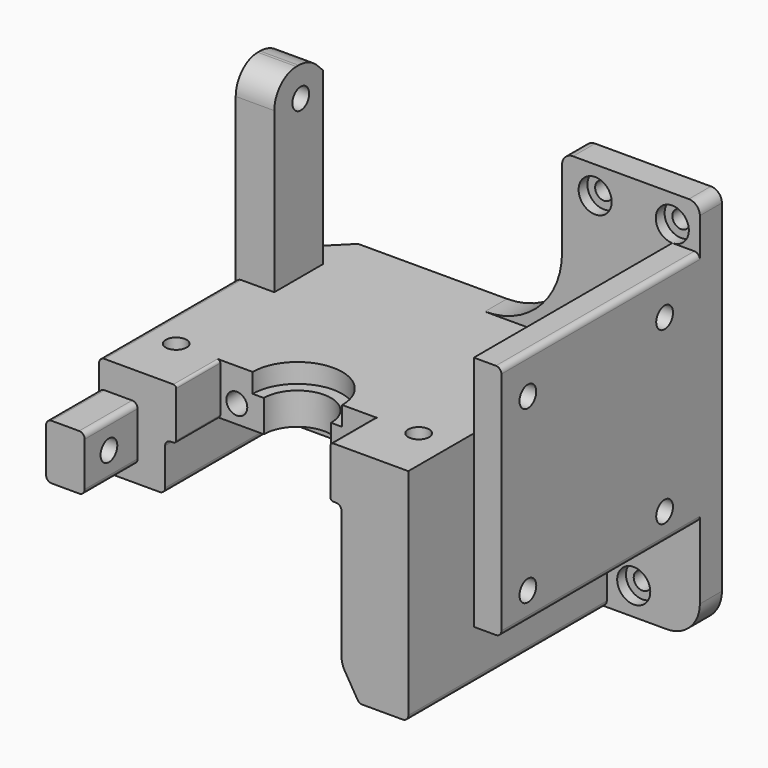
from build123d import *

# Parameters (mm, degrees)
PAD_DEPTH       = 70
SKETCH001_W     = 11.887794
SKETCH001_H     = 46.78
POCKET_DEPTH    = 70.001
POCKET001_DEPTH = 30
SKETCH003_R     = 1.9
POCKET002_DEPTH = 40.001
POCKET003_DEPTH = 3.5
POCKET004_DEPTH = 9
SKETCH021_W     = 28
SKETCH021_H     = 53.161749
POCKET005_DEPTH = 10
SKETCH022_W     = 32
SKETCH022_H     = 58.660217
POCKET006_DEPTH = 28
POCKET007_DEPTH = 51
SKETCH008_W     = 19.05323
SKETCH008_H     = 10.69447
SKETCH008_W_2   = 35.750058
SKETCH008_H_2   = 36.172176
POCKET008_DEPTH = 45
SKETCH009_R     = 1.9
POCKET009_DEPTH = 5
SKETCH015_W     = 11
SKETCH015_H     = 38.184422
SKETCH015_W_2   = 19.881198
SKETCH015_H_2   = 10
PAD001_DEPTH    = 7
SKETCH011_R     = 1.9
POCKET010_DEPTH = 10
SKETCH014_W     = 10
SKETCH014_H     = 15
PAD002_DEPTH    = 18
SKETCH010_R     = 1.6
POCKET011_DEPTH = 6
SKETCH017_R     = 3
POCKET012_DEPTH = 2
SKETCH013_R     = 1.9
POCKET013_DEPTH = 10
CHAMFER_SIZE    = 7
CHAMFER001_SIZE = 3
FILLET_R        = 6
FILLET001_R     = 5
FILLET002_R     = 1
FILLET003_R     = 1
FILLET004_R     = 1
FILLET005_R     = 1
FILLET006_R     = 5
FILLET007_R     = 4
FILLET008_R     = 1
FILLET009_R     = 1
FILLET010_R     = 1
FILLET011_R     = 0.5
FILLET012_R     = 1
FILLET013_R     = 1
FILLET014_R     = 1
FILLET015_R     = 14
FILLET016_R     = 2
FILLET017_R     = 6
FILLET018_R     = 1


with BuildPart() as part:
    # Sketch → Pad (new body)
    with BuildSketch(Plane.XY):
        Polygon((0, 0), (45, 0), (45, -50), (-28, -50), (-28, 0), align=None)
    extrude(amount=PAD_DEPTH)

    # Sketch001 (on Face7 of Pad) → Pocket (cut, through all)
    with BuildSketch(Plane.XY.offset(70)):
        with Locations((34.056103, -28.39)):
            Rectangle(SKETCH001_W, SKETCH001_H)
    extrude(amount=-POCKET_DEPTH, mode=Mode.SUBTRACT)

    # Sketch002 (on Face5 of Pocket) → Pocket001 (cut)
    with BuildSketch(Plane.XY.offset(70)):
        Polygon((30, -5), (30, -65.096024), (-40.783405, -65.096024), (-40.783405, 12.994774), (20, 12.994774), (20, -5), align=None)
    extrude(amount=-POCKET001_DEPTH, mode=Mode.SUBTRACT)

    # Sketch003 (on Face6 of Pocket001) → Pocket002 (cut, through all)
    with BuildSketch(Plane.XY.offset(40)):
        with Locations((-22, -40)):
            Circle(SKETCH003_R)
        with Locations((22, -40)):
            Circle(SKETCH003_R)
    extrude(amount=-POCKET002_DEPTH, mode=Mode.SUBTRACT)

    # Sketch004 (on Face6 of Pocket002) → Pocket003 (cut)
    with BuildSketch(Plane.XY.offset(40)):
        with BuildLine():
            ThreePointArc((8.125, -40), (0, -31.875), (-8.125, -40))
            Line((-8.125, -59.24), (-8.125, -40))
            Line((8.125, -59.24), (-8.125, -59.24))
            Line((8.125, -40), (8.125, -59.24))
        make_face()
    extrude(amount=-POCKET003_DEPTH, mode=Mode.SUBTRACT)

    # Sketch018 → Pocket004 (cut)
    with BuildSketch(Plane.XY.offset(36.5)):
        with BuildLine():
            ThreePointArc((6.1, -40), (0, -33.9), (-6.1, -40))
            Line((-6.1, -40), (-6.1, -58.98))
            Line((6.1, -58.98), (-6.1, -58.98))
            Line((6.1, -40), (6.1, -58.98))
        make_face()
    extrude(amount=-POCKET004_DEPTH, mode=Mode.SUBTRACT)

    # Sketch021 (on Face9 of Pocket004) → Pocket005 (cut)
    with BuildSketch(Plane.XZ.offset(50)):
        with Locations((0, 16.83664)):
            Rectangle(SKETCH021_W, SKETCH021_H)
    extrude(amount=-POCKET005_DEPTH, mode=Mode.SUBTRACT)

    # Sketch022 (on Face13 of Pocket005) → Pocket006 (cut)
    with BuildSketch(Plane.XZ.offset(50)):
        with Locations((0, 1.369891)):
            Rectangle(SKETCH022_W, SKETCH022_H)
    extrude(amount=-POCKET006_DEPTH, mode=Mode.SUBTRACT)

    # Sketch023 (on Face9 of Pocket006) → Pocket007 (cut)
    with BuildSketch(Plane.XZ.offset(50)):
        Polygon((-38.33, 22), (6, 22), (24, -8), (-38.33, -8), align=None)
    extrude(amount=-POCKET007_DEPTH, mode=Mode.SUBTRACT)

    # Sketch008 (on Face14 of Pocket007) → Pocket008 (cut)
    with BuildSketch(Plane.XZ.offset(50)):
        with Locations((44.142395, 67.347235)):
            Rectangle(SKETCH008_W, SKETCH008_H)
        with Locations((52.797694, 0.913912)):
            Rectangle(SKETCH008_W_2, SKETCH008_H_2)
    extrude(amount=-POCKET008_DEPTH, mode=Mode.SUBTRACT)

    # Sketch009 (on Face3 of Pocket008) → Pocket009 (cut)
    with BuildSketch(Plane.YZ.offset(45)):
        with Locations((-44, 55)):
            Circle(SKETCH009_R)
        with Locations((-13, 24)):
            Circle(SKETCH009_R)
        with Locations((-13, 55)):
            Circle(SKETCH009_R)
        with Locations((-44, 24)):
            Circle(SKETCH009_R)
    extrude(amount=-POCKET009_DEPTH, mode=Mode.SUBTRACT)

    # Sketch015 (on Face27 of Pocket009) → Pad001 (join)
    with BuildSketch(Plane(origin=(-28, 0, 0), x_dir=(0, -1, 0), z_dir=(-1, 0, 0))):
        with Locations((13.5, 54.907789)):
            Rectangle(SKETCH015_W, SKETCH015_H)
        with Locations((52.059401, 30)):
            Rectangle(SKETCH015_W_2, SKETCH015_H_2)
    extrude(amount=-PAD001_DEPTH)

    # Sketch011 (on Face27 of Pad001) → Pocket010 (cut)
    with BuildSketch(Plane(origin=(-28, 0, 0), x_dir=(0, -1, 0), z_dir=(-1, 0, 0))):
        with Locations((56.5, 30)):
            Circle(SKETCH011_R)
        with Locations((13, 68.5)):
            Circle(SKETCH011_R)
    extrude(amount=-POCKET010_DEPTH, mode=Mode.SUBTRACT)

    # Sketch014 (on Face3 of Pocket010) → Pad002 (join)
    with BuildSketch(Plane.YZ.offset(45)):
        with Locations((-30, 32.5)):
            Rectangle(SKETCH014_W, SKETCH014_H)
    extrude(amount=-PAD002_DEPTH)

    # Sketch010 → Pocket011 (cut)
    with BuildSketch(Plane(origin=(0, 0, 0), x_dir=(-1, 0, 0), z_dir=(0, 1, 0))):
        with Locations((-33, 5)):
            Circle(SKETCH010_R)
        with Locations((-40, 65)):
            Circle(SKETCH010_R)
        with Locations((-26, 65)):
            Circle(SKETCH010_R)
    extrude(amount=-POCKET011_DEPTH, mode=Mode.SUBTRACT)

    # Sketch017 (on Face34 of Pocket011) → Pocket012 (cut)
    with BuildSketch(Plane.XZ.offset(5)):
        with Locations((26, 65)):
            Circle(SKETCH017_R)
        with Locations((33, 5)):
            Circle(SKETCH017_R)
        with Locations((40, 65)):
            Circle(SKETCH017_R)
    extrude(amount=-POCKET012_DEPTH, mode=Mode.SUBTRACT)

    # Sketch013 (on Face43 of Pocket012) → Pocket013 (cut)
    with BuildSketch(Plane.XZ.offset(40)):
        with Locations((-11, 34)):
            Circle(SKETCH013_R)
        with Locations((11, 34)):
            Circle(SKETCH013_R)
    extrude(amount=-POCKET013_DEPTH, mode=Mode.SUBTRACT)

    # Chamfer
    chamfer_edges = [part.edges().sort_by_distance(p)[0] for p in [
        (-28, 0, 31),
    ]]
    chamfer(chamfer_edges, length=CHAMFER_SIZE)

    # Chamfer001
    chamfer001_edges = [part.edges().sort_by_distance(p)[0] for p in [
        (-24.5, -8, 74),
    ]]
    chamfer(chamfer001_edges, length=CHAMFER001_SIZE)

    # Fillet
    fillet_edges = [part.edges().sort_by_distance(p)[0] for p in [
        (-24.5, -11, 74),
    ]]
    fillet(fillet_edges, radius=FILLET_R)

    # Fillet001
    fillet001_edges = [part.edges().sort_by_distance(p)[0] for p in [
        (-24.5, -19, 74),
    ]]
    fillet(fillet001_edges, radius=FILLET001_R)

    # Fillet002
    fillet002_edges = [part.edges().sort_by_distance(p)[0] for p in [
        (-28, -34.5, 40),
    ]]
    fillet(fillet002_edges, radius=FILLET002_R)

    # Fillet003
    fillet003_edges = [part.edges().sort_by_distance(p)[0] for p in [
        (-28, -28.5, 22),
    ]]
    fillet(fillet003_edges, radius=FILLET003_R)

    # Fillet004
    fillet004_edges = [part.edges().sort_by_distance(p)[0] for p in [
        (-16, -36, 22),
    ]]
    fillet(fillet004_edges, radius=FILLET004_R)

    # Fillet005
    fillet005_edges = [part.edges().sort_by_distance(p)[0] for p in [
        (19.2, -25, 0),
    ]]
    fillet(fillet005_edges, radius=FILLET005_R)

    # Fillet006
    fillet006_edges = [part.edges().sort_by_distance(p)[0] for p in [
        (6, -11, 22),
    ]]
    fillet(fillet006_edges, radius=FILLET006_R)

    # Fillet007
    fillet007_edges = [part.edges().sort_by_distance(p)[0] for p in [
        (16, -36, 5.333333),
    ]]
    fillet(fillet007_edges, radius=FILLET007_R)

    # Fillet008
    fillet008_edges = [part.edges().sort_by_distance(p)[0] for p in [
        (16, -36, 30.7),
    ]]
    fillet(fillet008_edges, radius=FILLET008_R)

    # Fillet009
    fillet009_edges = [part.edges().sort_by_distance(p)[0] for p in [
        (-16, -36, 30.7),
    ]]
    fillet(fillet009_edges, radius=FILLET009_R)

    # Fillet010
    fillet010_edges = [part.edges().sort_by_distance(p)[0] for p in [
        (-28, -56, 25),
        (-21, -56, 25),
        (-21, -56, 35),
        (-28, -56, 35),
    ]]
    fillet(fillet010_edges, radius=FILLET010_R)

    # Fillet011
    fillet011_edges = [part.edges().sort_by_distance(p)[0] for p in [
        (14, -45, 30.7),
        (-14, -45, 30.7),
        (14, -45, 40),
        (-14, -45, 40),
    ]]
    fillet(fillet011_edges, radius=FILLET011_R)

    # Fillet012
    fillet012_edges = [part.edges().sort_by_distance(p)[0] for p in [
        (28.112206, -27.5, 0),
    ]]
    fillet(fillet012_edges, radius=FILLET012_R)

    # Fillet013
    fillet013_edges = [part.edges().sort_by_distance(p)[0] for p in [
        (45, -27.5, 19),
    ]]
    fillet(fillet013_edges, radius=FILLET013_R)

    # Fillet014
    fillet014_edges = [part.edges().sort_by_distance(p)[0] for p in [
        (45, -27.5, 62),
    ]]
    fillet(fillet014_edges, radius=FILLET014_R)

    # Fillet015
    fillet015_edges = [part.edges().sort_by_distance(p)[0] for p in [
        (20, -2.5, 40),
    ]]
    fillet(fillet015_edges, radius=FILLET015_R)

    # Fillet016
    fillet016_edges = [part.edges().sort_by_distance(p)[0] for p in [
        (20, -2.5, 70),
        (45, -2.5, 70),
    ]]
    fillet(fillet016_edges, radius=FILLET016_R)

    # Fillet017
    fillet017_edges = [part.edges().sort_by_distance(p)[0] for p in [
        (45, -2.5, 0),
    ]]
    fillet(fillet017_edges, radius=FILLET017_R)

    # Fillet018
    fillet018_edges = [part.edges().sort_by_distance(p)[0] for p in [
        (-28, -7, 31.5),
    ]]
    fillet(fillet018_edges, radius=FILLET018_R)


solid = part.part
